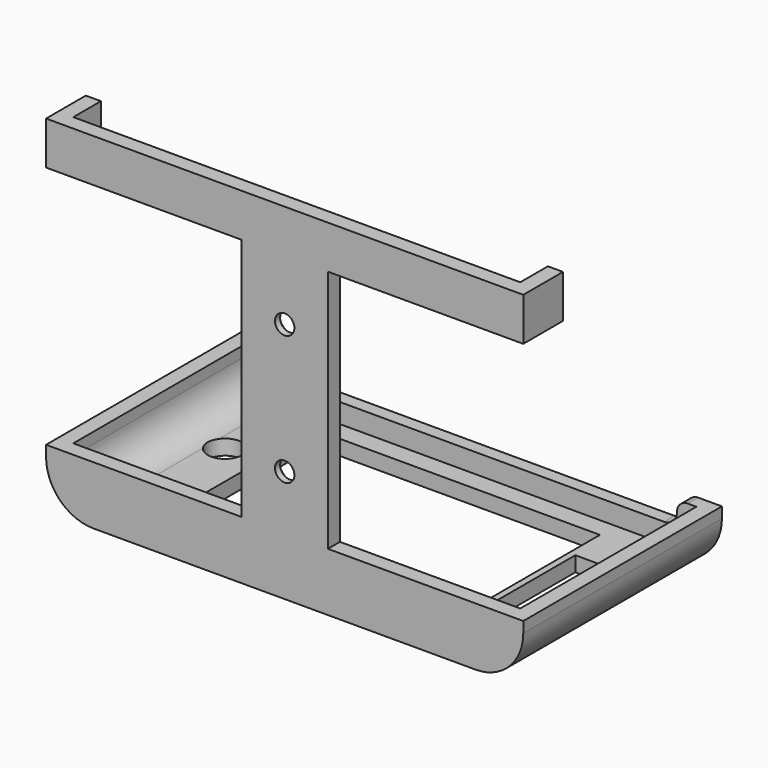
from build123d import *

# Parameters (mm, degrees)
SKETCH067_R     = 2.25
PAD050_DEPTH    = 3.5
PAD051_DEPTH    = 51
PAD052_DEPTH    = 3
CHAMFER005_SIZE = 2
SKETCH070_R     = 4
SKETCH070_W     = 66
SKETCH070_H     = 42.5
SKETCH070_W_2   = 10
SKETCH070_H_2   = 25
POCKET033_DEPTH = 80.001
SKETCH071_W     = 3.5
SKETCH071_H     = 10
PAD053_DEPTH    = 8


with BuildPart() as part:
    # Sketch067 → Pad050 (new body)
    with BuildSketch(Plane.XZ):
        with BuildLine():
            Line((55.25, 24), (-55.25, 24))
            Line((-55.25, 24), (-55.25, 14))
            Line((-55.25, 14), (-10, 14))
            Line((-10, 14), (-10, -42.5))
            Line((-10, -42.5), (-55.25, -42.5))
            Line((-55.25, -42.5), (-55.25, -45))
            ThreePointArc((-55.25, -45), (-52.028175, -52.778175), (-44.25, -56))
            Line((44.25, -56), (-44.25, -56))
            ThreePointArc((44.25, -56), (52.028175, -52.778175), (55.25, -45))
            Line((55.25, -42.5), (55.25, -45))
            Line((10, -42.5), (55.25, -42.5))
            Line((10, 14), (10, -42.5))
            Line((55.25, 14), (10, 14))
            Line((55.25, 24), (55.25, 14))
        make_face()
        Circle(SKETCH067_R, mode=Mode.SUBTRACT)
        with Locations((0, -30)):
            Circle(SKETCH067_R, mode=Mode.SUBTRACT)
    extrude(amount=PAD050_DEPTH)

    # Sketch068 (on Face17 of Pad050) → Pad051 (join)
    with BuildSketch(Plane(origin=(0, 0, 0), x_dir=(1, 0, 0), z_dir=(0, 1, 0))):
        with BuildLine():
            Line((-55.25, 45), (-55.25, 42.5))
            Line((-55.25, 42.5), (-51.75, 42.5))
            Line((-51.75, 42.5), (-51.75, 45))
            ThreePointArc((-44.25, 52.5), (-49.553301, 50.303301), (-51.75, 45))
            Line((-44.25, 52.5), (44.25, 52.5))
            ThreePointArc((51.75, 45), (49.553301, 50.303301), (44.25, 52.5))
            Line((51.75, 42.5), (51.75, 45))
            Line((55.25, 42.5), (51.75, 42.5))
            Line((55.25, 45), (55.25, 42.5))
            ThreePointArc((55.25, 45), (52.028175, 52.778175), (44.25, 56))
            Line((-44.25, 56), (44.25, 56))
            ThreePointArc((-44.25, 56), (-52.028175, 52.778175), (-55.25, 45))
        make_face()
    extrude(amount=PAD051_DEPTH)

    # Sketch069 (on Face17 of Pad051) → Pad052 (join)
    with BuildSketch(Plane(origin=(0, 51, 0), x_dir=(1, 0, 0), z_dir=(0, 1, 0))):
        with BuildLine():
            Line((-55.25, 45), (-55.25, 42.5))
            Line((-55.25, 42.5), (-49.75, 42.5))
            ThreePointArc((-49.75, 42.5), (-47.982233, 43.232233), (-47.25, 45))
            ThreePointArc((-44.25, 48), (-46.37132, 47.12132), (-47.25, 45))
            Line((-44.25, 48), (44.25, 48))
            ThreePointArc((47.25, 45), (46.37132, 47.12132), (44.25, 48))
            ThreePointArc((47.25, 45), (47.982233, 43.232233), (49.75, 42.5))
            Line((55.25, 42.5), (49.75, 42.5))
            Line((55.25, 45), (55.25, 42.5))
            ThreePointArc((55.25, 45), (52.028175, 52.778175), (44.25, 56))
            Line((-44.25, 56), (44.25, 56))
            ThreePointArc((-44.25, 56), (-52.028175, 52.778175), (-55.25, 45))
        make_face()
    extrude(amount=PAD052_DEPTH)

    # Chamfer005
    chamfer005_edges = [part.edges().sort_by_distance(p)[0] for p in [
        (-2.25, 0, -30),
        (-2.25, 0, 0),
    ]]
    chamfer(chamfer005_edges, length=CHAMFER005_SIZE)

    # Sketch070 (on Face28 of Chamfer005) → Pocket033 (cut, through all)
    with BuildSketch(Plane(origin=(0, 0, -56), x_dir=(1, 0, 0), z_dir=(0, 0, -1))):
        with Locations((-41, -30.5)):
            Circle(SKETCH070_R)
        with Locations((0, -25.25)):
            Rectangle(SKETCH070_W, SKETCH070_H)
        with Locations((39.5, -25)):
            Rectangle(SKETCH070_W_2, SKETCH070_H_2)
    extrude(amount=-POCKET033_DEPTH, mode=Mode.SUBTRACT)

    # Sketch071 (on Face4 of Pad051) → Pad053 (join)
    with BuildSketch(Plane(origin=(0, 0, 0), x_dir=(1, 0, 0), z_dir=(0, 1, 0))):
        with Locations((-53.5, -19)):
            Rectangle(SKETCH071_W, SKETCH071_H)
        with Locations((53.5, -19)):
            Rectangle(SKETCH071_W, SKETCH071_H)
    extrude(amount=PAD053_DEPTH)


solid = part.part
